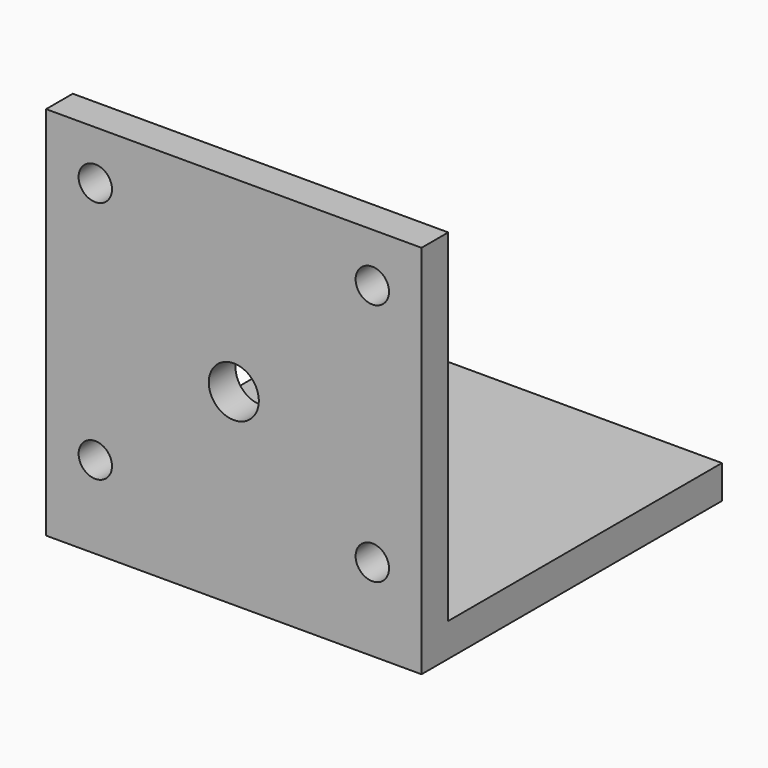
from build123d import *

# Parameters (mm, degrees)
F0_W     = 57.15
F0_H     = 57.15
F1_DEPTH = 57.15
F2_T     = -5.08
F3_R     = 2.54
F4_DEPTH = 25.4
F5_R     = 3.81
F6_DEPTH = 25.4


with BuildPart() as f1:
    # F0 (on Top) → F1 (new body)
    with BuildSketch(Plane.XY):
        Rectangle(F0_W, F0_H)
    extrude(amount=F1_DEPTH)

    # F2
    f2_openings = [f1.faces().sort_by_distance(p)[0] for p in [
        (0, 0, 57.15),
        (28.575, 0, 28.575),
        (0, 28.575, 28.575),
        (-28.575, 0, 28.575),
    ]]
    offset(amount=F2_T, openings=f2_openings)

    # F3 (on face) → F4 (cut)
    with BuildSketch(Plane(origin=(0, -23.495, 0), x_dir=(-1, 0, 0), z_dir=(0, 1, 0))):
        with Locations((-21.082, 49.657)):
            Circle(F3_R)
        with Locations((21.082, 49.657)):
            Circle(F3_R)
        with Locations((-21.082, 12.573)):
            Circle(F3_R)
        with Locations((21.082, 12.573)):
            Circle(F3_R)
    extrude(amount=-F4_DEPTH, mode=Mode.SUBTRACT)

    # F5 (on face) → F6 (cut)
    with BuildSketch(Plane.XZ.offset(28.575)):
        with Locations((0, 28.575)):
            Circle(F5_R)
    extrude(amount=-F6_DEPTH, mode=Mode.SUBTRACT)


solid = f1.part
